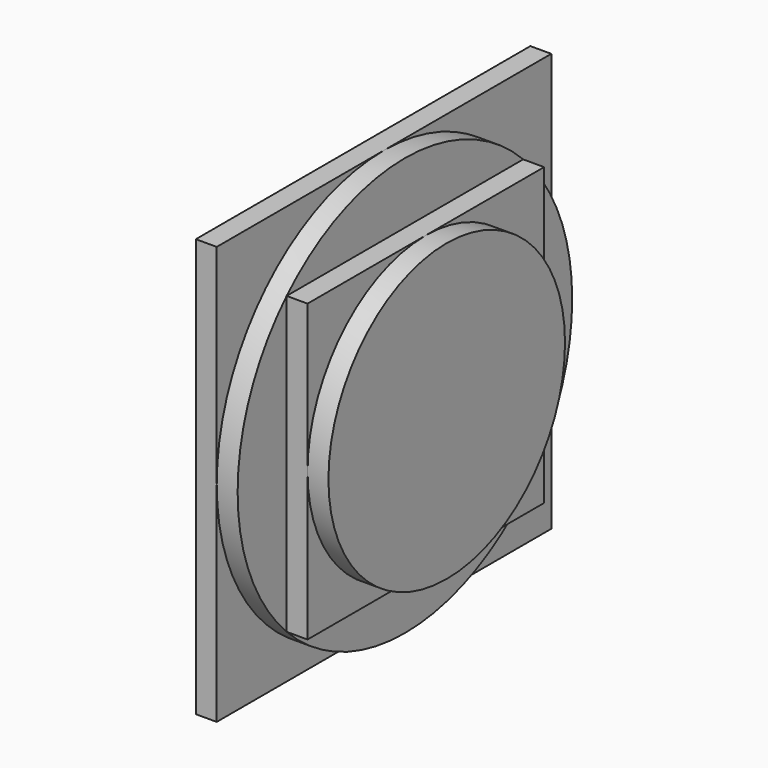
from build123d import *

# Parameters (mm, degrees)
F0_W     = 2
F0_H     = 40
F1_DEPTH = 20
F2_W     = 2
F2_H     = 20
F5_W     = 28.284272
F5_H     = 28.284272
F6_DEPTH = 2
F7_W     = 2
F7_H     = 14.142136


with BuildPart() as f1:
    # F0 (on Front) → F1 (new body, symmetric)
    with BuildSketch(Plane.XZ):
        with Locations((-61, 0)):
            Rectangle(F0_W, F0_H)
    extrude(amount=F1_DEPTH, both=True)

    # F2 (on Front) → F3 (revolve)
    with BuildSketch(Plane.XZ):
        with Locations((-59, 10)):
            Rectangle(F2_W, F2_H)
    revolve(axis=Axis((-60, 0, 0), (-1, 0, 0)))

    # F5 (on offset) → F6 (join)
    with BuildSketch(Plane.YZ.offset(-58)):
        Rectangle(F5_W, F5_H)
    extrude(amount=F6_DEPTH)

    # F7 (on Front) → F8 (revolve)
    with BuildSketch(Plane.XZ):
        with Locations((-55, 7.071068)):
            Rectangle(F7_W, F7_H)
    revolve(axis=Axis((-55, 0, 0), (-1, 0, 0)))


solid = f1.part
